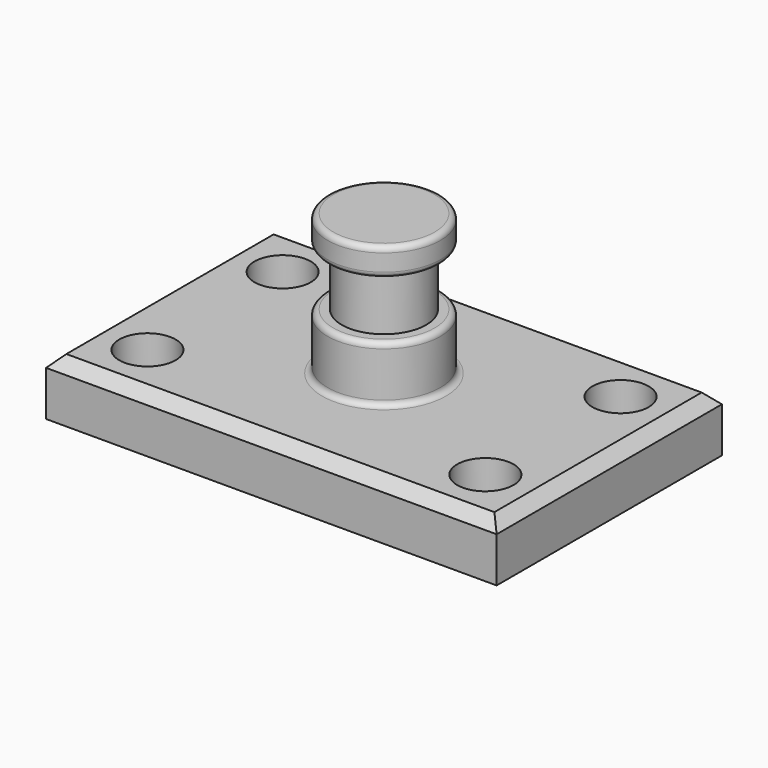
from build123d import *

# Parameters (mm, degrees)
F0_W     = 101.6
F0_H     = 63.5
F1_DEPTH = 12.7
F2_R     = 6.35
F3_DEPTH = 12.701
F4_W     = 12.7
F4_H     = 31.75
F6_W     = 3.175
F6_H     = 12.7
F8_R     = 1.27
F9_SIZE  = 2.54


with BuildPart() as f1:
    # F0 (on Top) → F1 (new body)
    with BuildSketch(Plane.XY):
        Rectangle(F0_W, F0_H)
    extrude(amount=F1_DEPTH)

    # F2 (on face) → F3 (cut, through all)
    with BuildSketch(Plane.XY.offset(12.7)):
        with Locations((-38.1, 19.05)):
            Circle(F2_R)
        with Locations((-38.1, -19.05)):
            Circle(F2_R)
        with Locations((38.1, 19.05)):
            Circle(F2_R)
        with Locations((38.1, -19.05)):
            Circle(F2_R)
    extrude(amount=-F3_DEPTH, mode=Mode.SUBTRACT)

    # F4 (on Front) → F5 (revolve)
    with BuildSketch(Plane.XZ):
        with Locations((6.35, 28.575)):
            Rectangle(F4_W, F4_H)
    revolve(axis=Axis((0, 0, 28.575), (0, 0, 1)))

    # F6 (on Front) → F7 (revolve, cut)
    with BuildSketch(Plane.XZ):
        with Locations((11.1125, 31.75)):
            Rectangle(F6_W, F6_H)
    revolve(axis=Axis((0, 0, 28.575), (0, 0, 1)), mode=Mode.SUBTRACT)

    # F8
    f8_edges = [f1.edges().sort_by_distance(p)[0] for p in [
        (-12.7, 0, 12.7),
        (-12.7, 0, 44.45),
        (-12.7, 0, 38.1),
        (-12.7, 0, 25.4),
    ]]
    fillet(f8_edges, radius=F8_R)

    # F9
    f9_edges = [f1.edges().sort_by_distance(p)[0] for p in [
        (0, -31.75, 12.7),
        (50.8, 0, 12.7),
        (0, 31.75, 12.7),
        (-50.8, 0, 12.7),
    ]]
    chamfer(f9_edges, length=F9_SIZE)


solid = f1.part
